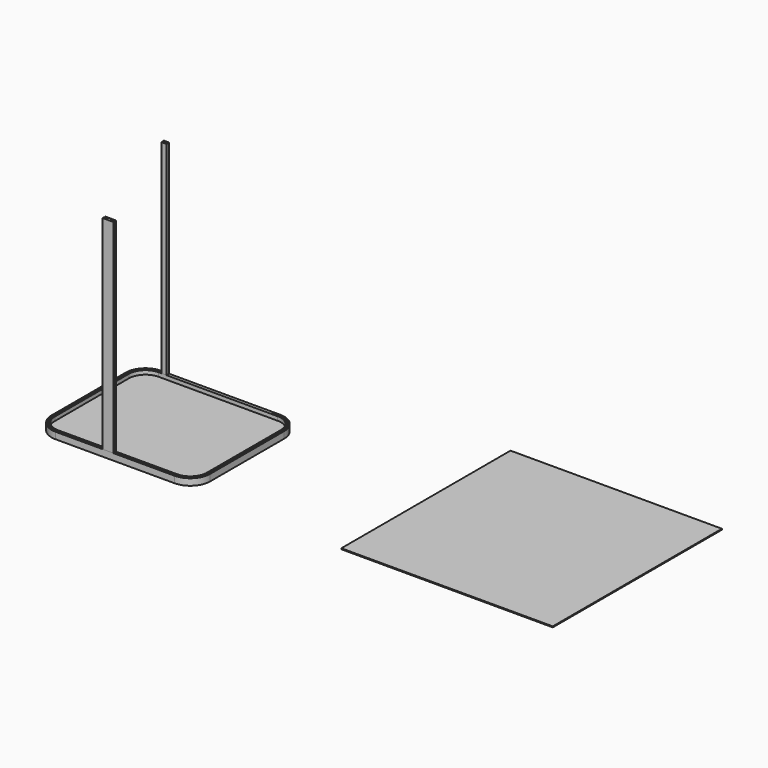
from build123d import *

# Parameters (mm, degrees)
F0_W     = 80
F0_H     = 0.75
F0_H_2   = 1
F1_DEPTH = 3
F2_DEPTH = 2
F3_W     = 160
F3_H     = 160
F4_DEPTH = 0.7
F6_DEPTH = 154


with BuildPart() as f1:
    # F0 (on Top) → F1 (new body)
    with BuildSketch(Plane.XY):
        with BuildLine():
            Line((5, 0), (0, 0))
            ThreePointArc((0, 0), (-10.6066017178, -4.3933982822), (-15, -15))
            Line((-15, -15), (-15, -85))
            ThreePointArc((-15, -85), (-10.6066017178, -95.6066017178), (0, -100))
            Line((0, -100), (90, -100))
            ThreePointArc((90, -100), (100.6066017178, -95.6066017178), (105, -85))
            Line((105, -85), (105, -15))
            ThreePointArc((105, -15), (100.6066017178, -4.3933982822), (90, 0))
            Line((90, 0), (85, 0))
            Line((85, 0), (85, -0.75))
            Line((85, -0.75), (90, -0.75))
            ThreePointArc((90, -0.75), (100.0762716319, -4.9237283681), (104.25, -15))
            Line((104.25, -15), (104.25, -85))
            ThreePointArc((104.25, -85), (100.0762716319, -95.0762716319), (90, -99.25))
            Line((90, -99.25), (0, -99.25))
            ThreePointArc((0, -99.25), (-10.0762716319, -95.0762716319), (-14.25, -85))
            Line((-14.25, -85), (-14.25, -15))
            ThreePointArc((-14.25, -15), (-10.0762716319, -4.9237283681), (0, -0.75))
            Line((0, -0.75), (5, -0.75))
            Line((5, -0.75), (5, 0))
        make_face()
        with BuildLine():
            Line((5, -2.5), (5, -1.75))
            Line((5, -1.75), (0, -1.75))
            ThreePointArc((0, -1.75), (-9.3691648507, -5.6308351493), (-13.25, -15))
            Line((-13.25, -15), (-13.25, -85))
            ThreePointArc((-13.25, -85), (-9.3691648507, -94.3691648507), (0, -98.25))
            Line((0, -98.25), (90, -98.25))
            ThreePointArc((90, -98.25), (99.3691648507, -94.3691648507), (103.25, -85))
            Line((103.25, -85), (103.25, -15))
            ThreePointArc((103.25, -15), (99.3691648507, -5.6308351493), (90, -1.75))
            Line((90, -1.75), (85, -1.75))
            Line((85, -1.75), (85, -2.5))
            Line((85, -2.5), (90, -2.5))
            ThreePointArc((90, -2.5), (98.8388347648, -6.1611652352), (102.5, -15))
            Line((102.5, -15), (102.5, -85))
            ThreePointArc((102.5, -85), (98.8388347648, -93.8388347648), (90, -97.5))
            Line((90, -97.5), (0, -97.5))
            ThreePointArc((0, -97.5), (-8.8388347648, -93.8388347648), (-12.5, -85))
            Line((-12.5, -85), (-12.5, -15))
            ThreePointArc((-12.5, -15), (-8.8388347648, -6.1611652352), (0, -2.5))
            Line((0, -2.5), (5, -2.5))
        make_face()
        with Locations((45, -0.375)):
            Rectangle(F0_W, F0_H)
        with Locations((45, -1.25)):
            Rectangle(F0_W, F0_H_2)
        with Locations((45, -2.125)):
            Rectangle(F0_W, F0_H)
    extrude(amount=F1_DEPTH)

    # F0 (on Top) → F2 (join)
    with BuildSketch(Plane.XY):
        with BuildLine():
            Line((5, 0), (0, 0))
            ThreePointArc((0, 0), (-10.6066017178, -4.3933982822), (-15, -15))
            Line((-15, -15), (-15, -85))
            ThreePointArc((-15, -85), (-10.6066017178, -95.6066017178), (0, -100))
            Line((0, -100), (90, -100))
            ThreePointArc((90, -100), (100.6066017178, -95.6066017178), (105, -85))
            Line((105, -85), (105, -15))
            ThreePointArc((105, -15), (100.6066017178, -4.3933982822), (90, 0))
            Line((90, 0), (85, 0))
            Line((85, 0), (85, -0.75))
            Line((85, -0.75), (90, -0.75))
            ThreePointArc((90, -0.75), (100.0762716319, -4.9237283681), (104.25, -15))
            Line((104.25, -15), (104.25, -85))
            ThreePointArc((104.25, -85), (100.0762716319, -95.0762716319), (90, -99.25))
            Line((90, -99.25), (0, -99.25))
            ThreePointArc((0, -99.25), (-10.0762716319, -95.0762716319), (-14.25, -85))
            Line((-14.25, -85), (-14.25, -15))
            ThreePointArc((-14.25, -15), (-10.0762716319, -4.9237283681), (0, -0.75))
            Line((0, -0.75), (5, -0.75))
            Line((5, -0.75), (5, 0))
        make_face()
        with Locations((45, -0.375)):
            Rectangle(F0_W, F0_H)
        with BuildLine():
            Line((85, -2.5), (5, -2.5))
            Line((5, -2.5), (0, -2.5))
            ThreePointArc((0, -2.5), (-8.8388347648, -6.1611652352), (-12.5, -15))
            Line((-12.5, -15), (-12.5, -85))
            ThreePointArc((-12.5, -85), (-8.8388347648, -93.8388347648), (0, -97.5))
            Line((0, -97.5), (90, -97.5))
            ThreePointArc((90, -97.5), (98.8388347648, -93.8388347648), (102.5, -85))
            Line((102.5, -85), (102.5, -15))
            ThreePointArc((102.5, -15), (98.8388347648, -6.1611652352), (90, -2.5))
            Line((90, -2.5), (85, -2.5))
        make_face()
        with BuildLine():
            Line((5, -2.5), (5, -1.75))
            Line((5, -1.75), (0, -1.75))
            ThreePointArc((0, -1.75), (-9.3691648507, -5.6308351493), (-13.25, -15))
            Line((-13.25, -15), (-13.25, -85))
            ThreePointArc((-13.25, -85), (-9.3691648507, -94.3691648507), (0, -98.25))
            Line((0, -98.25), (90, -98.25))
            ThreePointArc((90, -98.25), (99.3691648507, -94.3691648507), (103.25, -85))
            Line((103.25, -85), (103.25, -15))
            ThreePointArc((103.25, -15), (99.3691648507, -5.6308351493), (90, -1.75))
            Line((90, -1.75), (85, -1.75))
            Line((85, -1.75), (85, -2.5))
            Line((85, -2.5), (90, -2.5))
            ThreePointArc((90, -2.5), (98.8388347648, -6.1611652352), (102.5, -15))
            Line((102.5, -15), (102.5, -85))
            ThreePointArc((102.5, -85), (98.8388347648, -93.8388347648), (90, -97.5))
            Line((90, -97.5), (0, -97.5))
            ThreePointArc((0, -97.5), (-8.8388347648, -93.8388347648), (-12.5, -85))
            Line((-12.5, -85), (-12.5, -15))
            ThreePointArc((-12.5, -15), (-8.8388347648, -6.1611652352), (0, -2.5))
            Line((0, -2.5), (5, -2.5))
        make_face()
        with BuildLine():
            Line((5, -1.75), (5, -0.75))
            Line((5, -0.75), (0, -0.75))
            ThreePointArc((0, -0.75), (-10.0762716319, -4.9237283681), (-14.25, -15))
            Line((-14.25, -15), (-14.25, -85))
            ThreePointArc((-14.25, -85), (-10.0762716319, -95.0762716319), (0, -99.25))
            Line((0, -99.25), (90, -99.25))
            ThreePointArc((90, -99.25), (100.0762716319, -95.0762716319), (104.25, -85))
            Line((104.25, -85), (104.25, -15))
            ThreePointArc((104.25, -15), (100.0762716319, -4.9237283681), (90, -0.75))
            Line((90, -0.75), (85, -0.75))
            Line((85, -0.75), (85, -1.75))
            Line((85, -1.75), (90, -1.75))
            ThreePointArc((90, -1.75), (99.3691648507, -5.6308351493), (103.25, -15))
            Line((103.25, -15), (103.25, -85))
            ThreePointArc((103.25, -85), (99.3691648507, -94.3691648507), (90, -98.25))
            Line((90, -98.25), (0, -98.25))
            ThreePointArc((0, -98.25), (-9.3691648507, -94.3691648507), (-13.25, -85))
            Line((-13.25, -85), (-13.25, -15))
            ThreePointArc((-13.25, -15), (-9.3691648507, -5.6308351493), (0, -1.75))
            Line((0, -1.75), (5, -1.75))
        make_face()
        with Locations((45, -1.25)):
            Rectangle(F0_W, F0_H_2)
        with Locations((45, -2.125)):
            Rectangle(F0_W, F0_H)
    extrude(amount=-F2_DEPTH)


with BuildPart() as f4:
    # F3 (on Top) → F4 (new body)
    with BuildSketch(Plane.XY):
        with Locations((302.2037577629, -27.4255256355)):
            Rectangle(F3_W, F3_H)
    extrude(amount=F4_DEPTH)


with BuildPart() as f6:
    # F5 (on face) → F6 (new body)
    with BuildSketch(Plane.XY.offset(3)):
        Polygon((6, 0), (2, 0), (2, -0.75), (5, -0.75), (5, -1.75), (2, -1.75), (2, -2.5), (6, -2.5), align=None)
    extrude(amount=F6_DEPTH)


with BuildPart() as f6b:
    # F5 (on face) → F6, piece 2 (new body)
    with BuildSketch(Plane.XY.offset(3)):
        Polygon((43.6620785445, -97.5), (35.6620785445, -97.5), (35.6620785445, -98.25), (38.6620785445, -98.25), (38.6620785445, -99.25), (35.6620785445, -99.25), (35.6620785445, -100), (43.6620785445, -100), (43.6620785445, -99.25), (40.6620785445, -99.25), (40.6620785445, -98.25), (43.6620785445, -98.25), align=None)
    extrude(amount=F6_DEPTH)


solid = Compound([f1.part, f4.part, f6.part, f6b.part])
